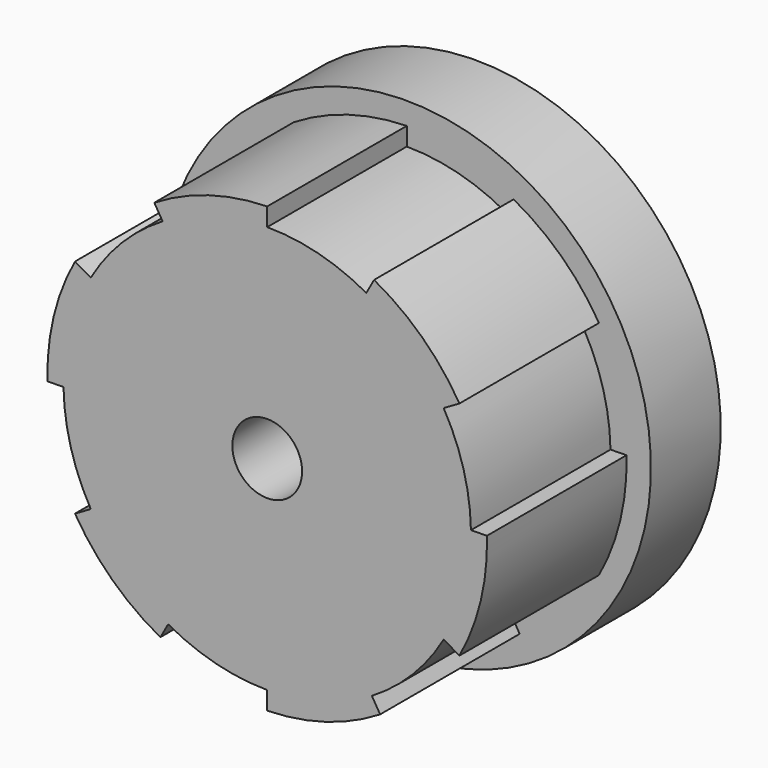
from build123d import *

# Parameters (mm, degrees)
F1_DEPTH = 10
F3_R     = 14
F4_DEPTH = 5
F2_R     = 2
F5_DEPTH = 40
F7_DEPTH = 4


with BuildPart() as f1:
    # F0 (on Front) → F1 (new body)
    with BuildSketch(Plane.XZ):
        with BuildLine():
            ThreePointArc((10.115177, -5.84), (11.282014, -3.023006), (11.68, 0))
            ThreePointArc((11.68, 0), (11.679631, 0.092805), (11.678525, 0.185604))
            ThreePointArc((11.678525, 0.185604), (11.257638, 3.112553), (10.115177, 5.84))
            ThreePointArc((10.115177, 5.84), (8.193124, 8.324369), (5.678525, 10.206701))
            ThreePointArc((5.678525, 10.206701), (2.933269, 11.305677), (0, 11.68))
            ThreePointArc((0, 11.68), (-3.112553, 11.257638), (-6, 10.021098))
            ThreePointArc((-6, 10.021098), (-8.324369, 8.193124), (-10.115177, 5.84))
            ThreePointArc((-10.115177, 5.84), (-11.305677, 2.933269), (-11.678525, -0.185604))
            ThreePointArc((-11.678525, -0.185604), (-11.257638, -3.112553), (-10.115177, -5.84))
            ThreePointArc((-10.115177, -5.84), (-8.193124, -8.324369), (-5.678525, -10.206701))
            ThreePointArc((-5.678525, -10.206701), (-2.933269, -11.305677), (0, -11.68))
            ThreePointArc((0, -11.68), (3.112553, -11.257638), (6, -10.021098))
            ThreePointArc((6, -10.021098), (8.324369, -8.193124), (10.115177, -5.84))
        make_face()
        with BuildLine():
            ThreePointArc((11.678525, 0.185604), (11.679631, 0.092805), (11.68, 0))
            ThreePointArc((11.68, 0), (11.282014, -3.023006), (10.115177, -5.84))
            Line((10.115177, -5.84), (11.01996, -6.362377))
            ThreePointArc((11.01996, -6.362377), (12.244829, -3.186001), (12.596117, 0.200187))
            Line((12.596117, 0.200187), (11.678525, 0.185604))
        make_face()
        with BuildLine():
            ThreePointArc((5.678525, 10.206701), (8.193124, 8.324369), (10.115177, 5.84))
            Line((10.115177, 5.84), (11.01996, 6.362377))
            ThreePointArc((11.01996, 6.362377), (8.881572, 9.011333), (6.124692, 11.00865))
            Line((6.124692, 11.00865), (5.678525, 10.206701))
        make_face()
        with BuildLine():
            Line((6.471425, -10.808464), (6, -10.021098))
            ThreePointArc((6, -10.021098), (3.112553, -11.257638), (0, -11.68))
            Line((0, -11.68), (0, -12.724753))
            ThreePointArc((0, -12.724753), (3.363257, -12.197333), (6.471425, -10.808464))
        make_face()
        with BuildLine():
            ThreePointArc((-6, 10.021098), (-3.112553, 11.257638), (0, 11.68))
            Line((0, 11.68), (0, 12.724753))
            ThreePointArc((0, 12.724753), (-3.363257, 12.197333), (-6.471425, 10.808464))
            Line((-6.471425, 10.808464), (-6, 10.021098))
        make_face()
        with BuildLine():
            Line((-6.124692, -11.00865), (-5.678525, -10.206701))
            ThreePointArc((-5.678525, -10.206701), (-8.193124, -8.324369), (-10.115177, -5.84))
            Line((-10.115177, -5.84), (-11.01996, -6.362377))
            ThreePointArc((-11.01996, -6.362377), (-8.881572, -9.011333), (-6.124692, -11.00865))
        make_face()
        with BuildLine():
            ThreePointArc((-11.678525, -0.185604), (-11.305677, 2.933269), (-10.115177, 5.84))
            Line((-10.115177, 5.84), (-11.01996, 6.362377))
            ThreePointArc((-11.01996, 6.362377), (-12.244829, 3.186001), (-12.596117, -0.200187))
            Line((-12.596117, -0.200187), (-11.678525, -0.185604))
        make_face()
    extrude(amount=F1_DEPTH)

    # F3 (on face) → F4 (join)
    with BuildSketch(Plane(origin=(0, 0, 0), x_dir=(-1, 0, 0), z_dir=(0, 1, 0))):
        Circle(F3_R)
    extrude(amount=F4_DEPTH)

    # F2 (on face) → F5 (cut)
    with BuildSketch(Plane.XZ.offset(10)):
        Circle(F2_R)
    extrude(amount=-F5_DEPTH, mode=Mode.SUBTRACT)

    # F6 (on face) → F7 (cut)
    with BuildSketch(Plane(origin=(0, 5, 0), x_dir=(-1, 0, 0), z_dir=(0, 1, 0))):
        Polygon((1.148891, 3.874711), (-2.781153, 2.932324), (-3.930043, -0.942387), (-1.148891, -3.874711), (2.781153, -2.932324), (3.930043, 0.942387), align=None)
    extrude(amount=-F7_DEPTH, mode=Mode.SUBTRACT)


solid = f1.part
